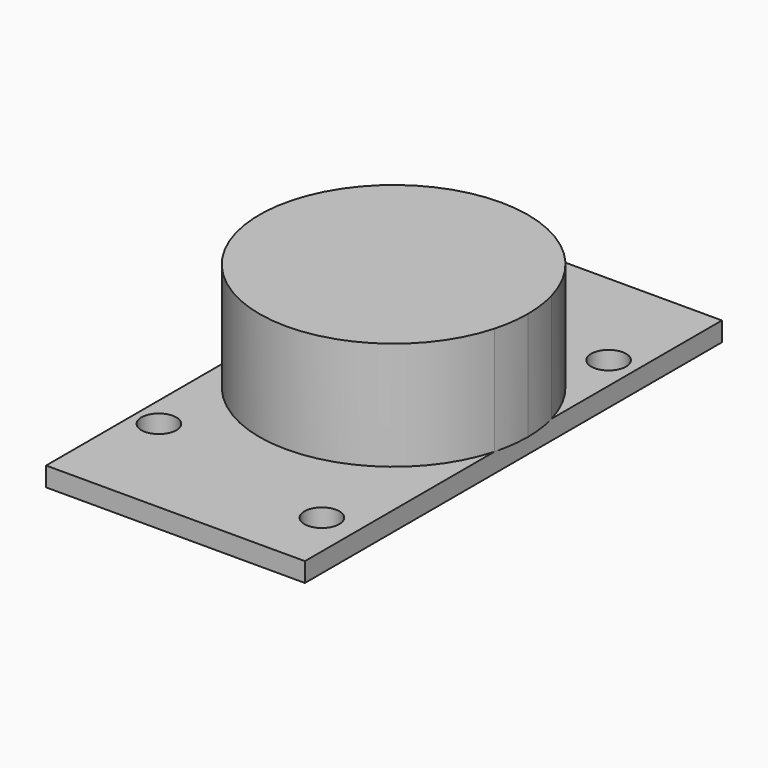
from build123d import *

# Parameters (mm, degrees)
F0_R     = 1.45
F1_DEPTH = 1.6
F2_DEPTH = 9


with BuildPart() as f1:
    # F0 (on Top) → F1 (new body)
    with BuildSketch(Plane.XY):
        with BuildLine():
            Line((-10.75, 21.65), (-10.75, 3.9597297174))
            ThreePointArc((-10.75, 3.9597297174), (0, 12.15), (10.75, 3.9597297174))
            Line((10.75, 3.9597297174), (10.75, 21.65))
            Line((10.75, 21.65), (-10.75, 21.65))
        make_face()
        with Locations((-8.7, 12.7)):
            Circle(F0_R, mode=Mode.SUBTRACT)
        with Locations((8.5, 12.7)):
            Circle(F0_R, mode=Mode.SUBTRACT)
        with BuildLine():
            Line((-10.75, 3.9597297174), (-10.75, -1.9597297174))
            ThreePointArc((-10.75, -1.9597297174), (0, -10.15), (10.75, -1.9597297174))
            Line((10.75, -1.9597297174), (10.75, 3.9597297174))
            ThreePointArc((10.75, 3.9597297174), (0, 12.15), (-10.75, 3.9597297174))
        make_face()
        with BuildLine():
            Line((-10.75, -1.9597297174), (-10.75, -21.65))
            Line((-10.75, -21.65), (10.75, -21.65))
            Line((10.75, -21.65), (10.75, -1.9597297174))
            ThreePointArc((10.75, -1.9597297174), (0, -10.15), (-10.75, -1.9597297174))
        make_face()
        with Locations((-8.7, -12.5)):
            Circle(F0_R, mode=Mode.SUBTRACT)
        with Locations((7.8, -16.2)):
            Circle(F0_R, mode=Mode.SUBTRACT)
    extrude(amount=-F1_DEPTH)

    # F0 (on Top) → F2 (join)
    with BuildSketch(Plane.XY):
        with BuildLine():
            Line((-10.75, 3.9597297174), (-10.75, -1.9597297174))
            ThreePointArc((-10.75, -1.9597297174), (0, -10.15), (10.75, -1.9597297174))
            Line((10.75, -1.9597297174), (10.75, 3.9597297174))
            ThreePointArc((10.75, 3.9597297174), (0, 12.15), (-10.75, 3.9597297174))
        make_face()
        with BuildLine():
            ThreePointArc((-10.75, 3.9597297174), (-11.15, 1), (-10.75, -1.9597297174))
            Line((-10.75, -1.9597297174), (-10.75, 3.9597297174))
        make_face()
        with BuildLine():
            Line((10.75, 3.9597297174), (10.75, -1.9597297174))
            ThreePointArc((10.75, -1.9597297174), (11.049547502, -0.4933184523), (11.15, 1))
            ThreePointArc((11.15, 1), (11.049547502, 2.4933184523), (10.75, 3.9597297174))
        make_face()
    extrude(amount=F2_DEPTH)


solid = f1.part
